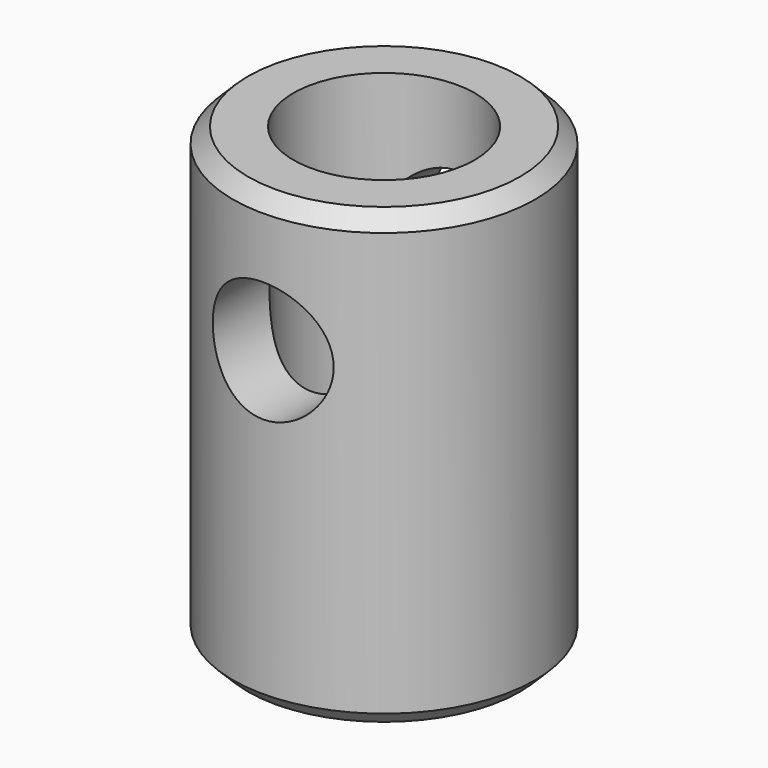
from build123d import *

# Parameters (mm, degrees)
CYLINDER002_R     = 4
CYLINDER002_DEPTH = 30
CYLINDER001_R     = 6
CYLINDER001_DEPTH = 30
CYLINDER_R        = 10
CYLINDER_DEPTH    = 30
CHAMFER_SIZE      = 1
CHAMFER001_SIZE   = 1


with BuildPart() as cilindro002:
    # Cylinder002 → Cylinder002 (new body)
    with BuildSketch(Plane(origin=(0, 15, 21), x_dir=(1, 0, 0), z_dir=(0, -1, 0))):
        Circle(CYLINDER002_R)
    extrude(amount=CYLINDER002_DEPTH)


with BuildPart() as cilindro001:
    # Cylinder001 → Cylinder001 (new body)
    with BuildSketch(Plane.XY):
        Circle(CYLINDER001_R)
    extrude(amount=CYLINDER001_DEPTH)


with BuildPart() as chamfer001:
    # Cylinder → Cylinder (new body)
    with BuildSketch(Plane.XY):
        Circle(CYLINDER_R)
    extrude(amount=CYLINDER_DEPTH)

    # Cut: cut Cilindro001
    add(cilindro001.part, mode=Mode.SUBTRACT)

    # Cut001: cut Cilindro002
    add(cilindro002.part, mode=Mode.SUBTRACT)

    # Chamfer
    chamfer_edges = [chamfer001.edges().sort_by_distance(p)[0] for p in [
        (-10, 0, 30),
    ]]
    chamfer(chamfer_edges, length=CHAMFER_SIZE)

    # Chamfer001
    chamfer001_edges = [chamfer001.edges().sort_by_distance(p)[0] for p in [
        (-10, 0, 0),
    ]]
    chamfer(chamfer001_edges, length=CHAMFER001_SIZE)


solid = chamfer001.part
